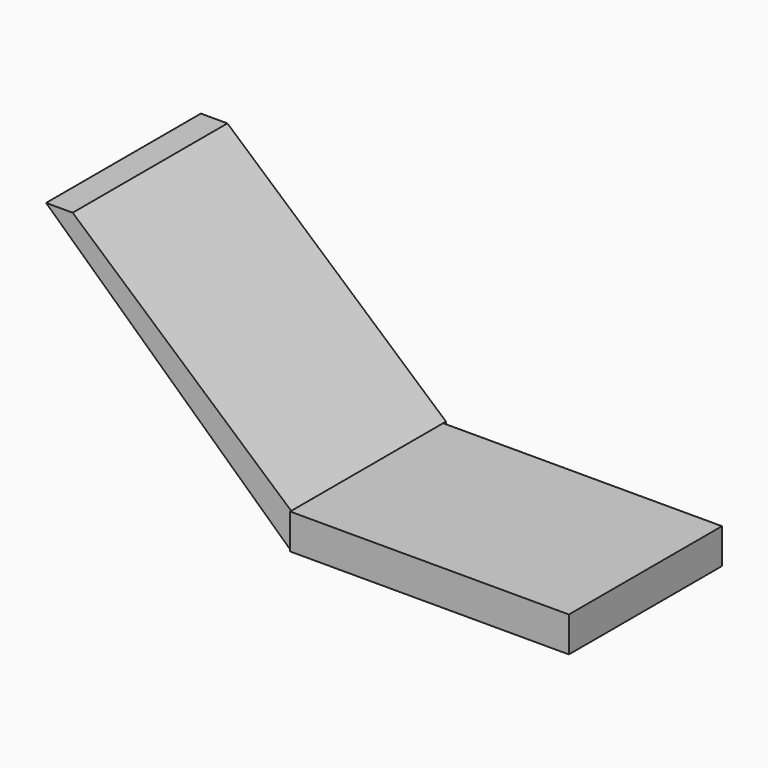
from build123d import *

# Parameters (mm, degrees)
F0_W     = 40.2566045523
F0_H     = 33.2116987556
F1_DEPTH = 5.08
F3_DEPTH = 13.97
F4_DEPTH = 5.588


with BuildPart() as f1:
    # F0 (on Top) → F1 (new body)
    with BuildSketch(Plane.XY):
        with Locations((-20.1283022761, -3.1450474635)):
            Rectangle(F0_W, F0_H)
    extrude(amount=F1_DEPTH)

    # F4 (cut): a face of the model
    f4_faces = [f1.faces().sort_by_distance(p)[0] for p in [
        (-20.1283022761, -19.7508968413, 2.54),
    ]]
    extrude(f4_faces, amount=-F4_DEPTH, mode=Mode.SUBTRACT)


with BuildPart() as f3:
    # F2 (on Front) → F3 (new body, symmetric)
    with BuildSketch(Plane.XZ):
        Polygon((-75.6542980671, 32.7272824943), (-40.2704589069, 0), (-40.256768465, 5.0800731406), (-71.8138366938, 32.7272824943), align=None)
    extrude(amount=F3_DEPTH, both=True)


solid = Compound([f1.part, f3.part])
